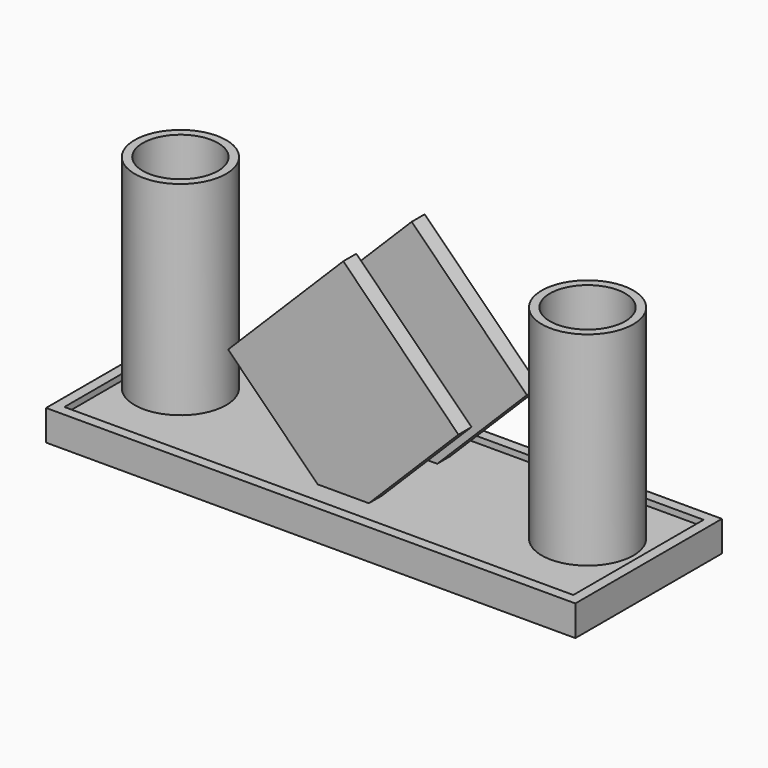
from build123d import *

# Parameters (mm, degrees)
F0_W      = 260
F0_H      = 90
F1_DEPTH  = 15
F2_R      = 22.5
F3_DEPTH  = 100
F4_R      = 18.5
F5_DEPTH  = 100
F7_DEPTH  = 5
F8_W      = 250
F8_H      = 80
F9_DEPTH  = 3
F13_DEPTH = 8
F15_DEPTH = 8


with BuildPart() as f1:
    # F0 (on Top) → F1 (new body)
    with BuildSketch(Plane.XY):
        Rectangle(F0_W, F0_H)
    extrude(amount=F1_DEPTH)

    # F2 (on face) → F3 (join)
    with BuildSketch(Plane.XY.offset(15)):
        with Locations((-100, 0)):
            Circle(F2_R)
        with Locations((100, 0)):
            Circle(F2_R)
    extrude(amount=F3_DEPTH)

    # F4 (on face) → F5 (cut)
    with BuildSketch(Plane.XY.offset(115)):
        with Locations((-100, 0)):
            Circle(F4_R)
        with Locations((100, 0)):
            Circle(F4_R)
    extrude(amount=-F5_DEPTH, mode=Mode.SUBTRACT)

    # F6 (on face) → F7 (join)
    with BuildSketch(Plane(origin=(0, 0, 0), x_dir=(1, 0, 0), z_dir=(0, 0, -1))):
        with BuildLine():
            Line((-95, -30), (-95, 30))
            ThreePointArc((-95, 30), (-96.464466, 33.535534), (-100, 35))
            ThreePointArc((-100, 35), (-103.535534, 33.535534), (-105, 30))
            Line((-105, 30), (-105, -30))
            ThreePointArc((-105, -30), (-103.535534, -33.535534), (-100, -35))
            ThreePointArc((-100, -35), (-96.464466, -33.535534), (-95, -30))
        make_face()
        with BuildLine():
            Line((105, -30), (105, 30))
            ThreePointArc((105, 30), (103.535534, 33.535534), (100, 35))
            ThreePointArc((100, 35), (96.464466, 33.535534), (95, 30))
            Line((95, 30), (95, -30))
            ThreePointArc((95, -30), (96.464466, -33.535534), (100, -35))
            ThreePointArc((100, -35), (103.535534, -33.535534), (105, -30))
        make_face()
    extrude(amount=F7_DEPTH)

    # F8 (on face) → F9 (cut)
    with BuildSketch(Plane.XY.offset(15)):
        Rectangle(F8_W, F8_H)
    extrude(amount=-F9_DEPTH, mode=Mode.SUBTRACT)


with BuildPart() as f13:
    # F12 (on offset) → F13 (new body)
    with BuildSketch(Plane.XZ.offset(25)):
        Polygon((-56.568542, 56.012582), (-12.55596, 12), (12.55596, 12), (56.568542, 56.012582), (0, 112.581125), align=None)
    extrude(amount=-F13_DEPTH)


with BuildPart() as f15:
    # F14 (on offset) → F15 (new body)
    with BuildSketch(Plane.XZ.offset(-25)):
        Polygon((-56.568542, 56.012542), (-12.556, 12), (12.556, 12), (56.568542, 56.012542), (0, 112.581085), align=None)
    extrude(amount=F15_DEPTH)


solid = Compound([f1.part, f13.part, f15.part])
